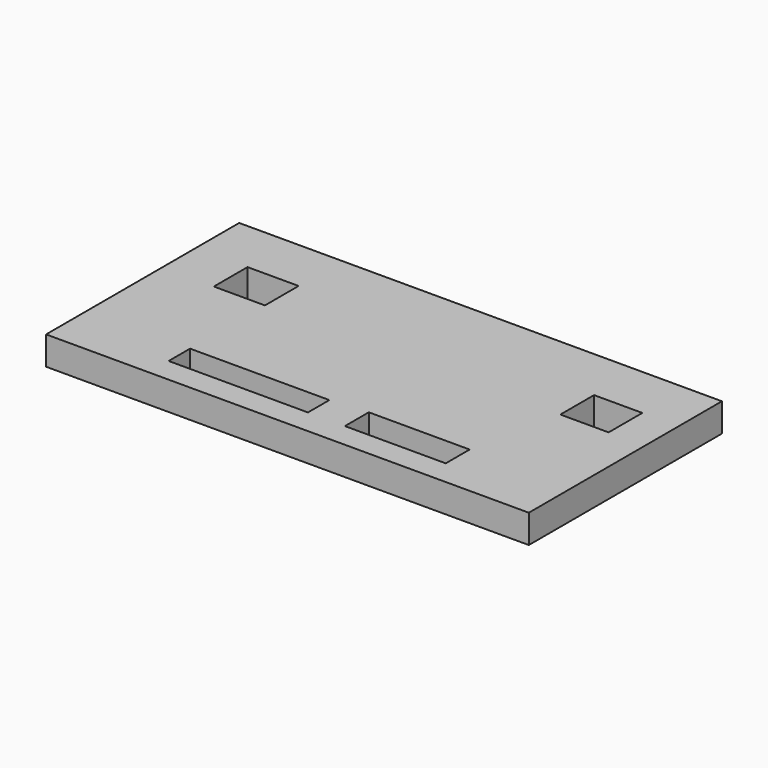
from build123d import *

# Parameters (mm, degrees)
F0_W     = 20
F0_H     = 10
F0_W_2   = 5.771608
F0_H_2   = 1.108755
F0_W_3   = 4.178392
F0_H_3   = 1.237988
F0_W_4   = 2.116683
F0_H_4   = 1.744637
F0_W_5   = 2
F1_DEPTH = 1.18


with BuildPart() as f1:
    # F0 (on Top) → F1 (new body)
    with BuildSketch(Plane.XY):
        with Locations((10, 5)):
            Rectangle(F0_W, F0_H)
        with Locations((7.145804, 1.576766)):
            Rectangle(F0_W_2, F0_H_2, mode=Mode.SUBTRACT)
        with Locations((13.650804, 1.641383)):
            Rectangle(F0_W_3, F0_H_3, mode=Mode.SUBTRACT)
        with Locations((3.201658, 6.880434)):
            Rectangle(F0_W_4, F0_H_4, mode=Mode.SUBTRACT)
        with Locations((17.5, 6.880434)):
            Rectangle(F0_W_5, F0_H_4, mode=Mode.SUBTRACT)
    extrude(amount=F1_DEPTH)


solid = f1.part
